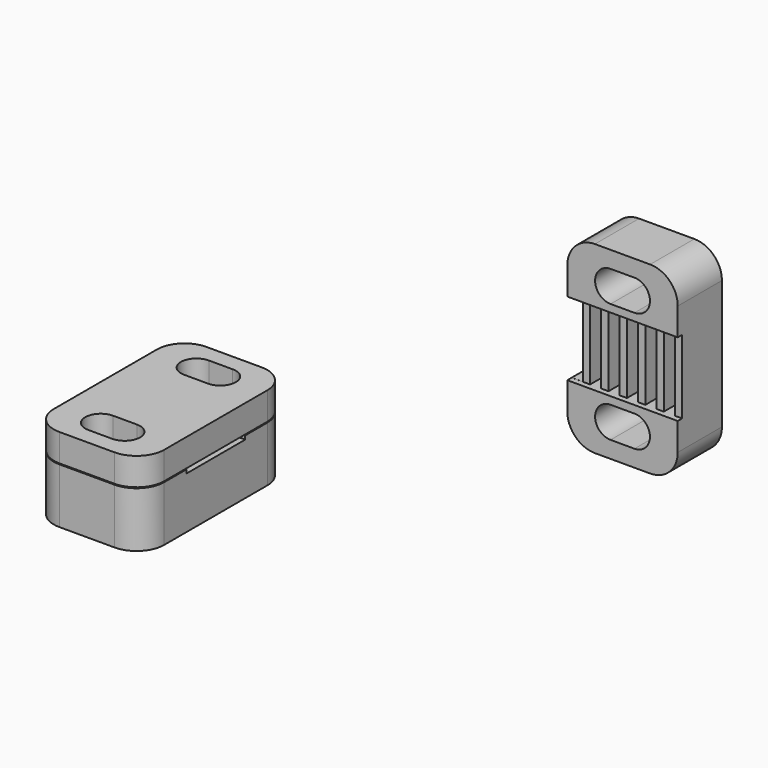
from build123d import *

# Parameters (mm, degrees)
BOX002_W        = 12
BOX002_H        = 6
BOX002_DEPTH    = 20
POCKET015_DEPTH = 6.001
SKETCH013_W     = 0.6
SKETCH013_H     = 8
POCKET016_DEPTH = 12.001
SKETCH011_W     = 1.2
SKETCH011_H     = 8
POCKET017_DEPTH = 1.6
FILLET006_R     = 3
PAD_DEPTH       = 6
SKETCH015_W     = 8
SKETCH015_H     = 0.5
POCKET_DEPTH    = 12.001
POCKET018_DEPTH = 6.001
PAD001_DEPTH    = 3
POCKET019_DEPTH = 5
SKETCH017_W     = 1.2
SKETCH017_H     = 8
POCKET020_DEPTH = 0.8


with BuildPart() as fillet006:
    # Box002 → Box002 (new body)
    with BuildSketch(Plane(origin=(28, 40, 0), x_dir=(1, 0, 0), z_dir=(0, 0, 1))):
        with Locations((6, 3)):
            Rectangle(BOX002_W, BOX002_H)
    extrude(amount=BOX002_DEPTH)

    # Sketch012 → Pocket015 (cut, through all)
    with BuildSketch(Plane(origin=(28, 46, 0), x_dir=(-1, 0, 0), z_dir=(0, 1, 0))):
        with BuildLine():
            ThreePointArc((-7.3, 18.18), (-8.98, 16.5), (-7.3, 14.82))
            Line((-7.3, 14.82), (-4.7, 14.82))
            ThreePointArc((-4.7, 14.82), (-3.02, 16.5), (-4.7, 18.18))
            Line((-7.3, 18.18), (-4.7, 18.18))
        make_face()
        with BuildLine():
            ThreePointArc((-7.3, 5.18), (-8.98, 3.5), (-7.3, 1.82))
            Line((-7.3, 1.82), (-4.7, 1.82))
            ThreePointArc((-4.7, 1.82), (-3.02, 3.5), (-4.7, 5.18))
            Line((-7.3, 5.18), (-4.7, 5.18))
        make_face()
    extrude(amount=-POCKET015_DEPTH, mode=Mode.SUBTRACT)

    # Sketch013 → Pocket016 (cut, through all)
    with BuildSketch(Plane(origin=(28, 40, 0), x_dir=(0, -1, 0), z_dir=(-1, 0, 0))):
        with Locations((-0.3, 10)):
            Rectangle(SKETCH013_W, SKETCH013_H)
    extrude(amount=-POCKET016_DEPTH, mode=Mode.SUBTRACT)

    # Sketch011 → Pocket017 (cut)
    with BuildSketch(Plane(origin=(28, 40.6, 0), x_dir=(1, 0, 0), z_dir=(0, -1, 0))):
        with Locations((6.599989, 10)):
            Rectangle(SKETCH011_W, SKETCH011_H)
        with Locations((4.599989, 10)):
            Rectangle(SKETCH011_W, SKETCH011_H)
        with Locations((2.599989, 10)):
            Rectangle(SKETCH011_W, SKETCH011_H)
        with Locations((0.6, 10.00427)):
            Rectangle(SKETCH011_W, SKETCH011_H)
        with Locations((8.599989, 10)):
            Rectangle(SKETCH011_W, SKETCH011_H)
        with Locations((10.599989, 10)):
            Rectangle(SKETCH011_W, SKETCH011_H)
    extrude(amount=-POCKET017_DEPTH, mode=Mode.SUBTRACT)

    # Fillet006
    fillet006_edges = [fillet006.edges().sort_by_distance(p)[0] for p in [
        (28, 43, 20),
        (28, 43, 0),
        (40, 43, 20),
        (40, 43, 0),
    ]]
    fillet(fillet006_edges, radius=FILLET006_R)


with BuildPart() as pocket018:
    # Sketch → Pad (new body)
    with BuildSketch(Plane.XY):
        with BuildLine():
            Line((4, 1), (10, 1))
            ThreePointArc((10, 1), (12.12132, 1.87868), (13, 4))
            Line((13, 4), (13, 18))
            ThreePointArc((13, 18), (12.12132, 20.12132), (10, 21))
            Line((10, 21), (4, 21))
            ThreePointArc((4, 21), (1.87868, 20.12132), (1, 18))
            Line((1, 18), (1, 4))
            ThreePointArc((1, 4), (1.87868, 1.87868), (4, 1))
        make_face()
    extrude(amount=PAD_DEPTH)

    # Sketch015 → Pocket (cut, through all)
    with BuildSketch(Plane.YZ.offset(13)):
        with Locations((11, 5.85)):
            Rectangle(SKETCH015_W, SKETCH015_H)
    extrude(amount=-POCKET_DEPTH, mode=Mode.SUBTRACT)

    # Sketch016 → Pocket018 (cut, through all)
    with BuildSketch(Plane(origin=(0, 0, 0), x_dir=(1, 0, 0), z_dir=(0, 0, -1))):
        with BuildLine():
            ThreePointArc((5.7, -15.82), (4.02, -17.5), (5.7, -19.18))
            Line((5.7, -19.18), (8.3, -19.18))
            ThreePointArc((8.3, -19.18), (9.98, -17.5), (8.3, -15.82))
            Line((5.7, -15.82), (8.3, -15.82))
        make_face()
        with BuildLine():
            ThreePointArc((5.7, -2.82), (4.02, -4.5), (5.7, -6.18))
            Line((5.7, -6.18), (8.3, -6.18))
            ThreePointArc((8.3, -6.18), (9.98, -4.5), (8.3, -2.82))
            Line((5.7, -2.82), (8.3, -2.82))
        make_face()
    extrude(amount=-POCKET018_DEPTH, mode=Mode.SUBTRACT)


with BuildPart() as pocket020:
    # Sketch014 → Pad001 (new body)
    with BuildSketch(Plane.XY.offset(6.1)):
        with BuildLine():
            Line((4, 1), (10, 1))
            ThreePointArc((10, 1), (12.12132, 1.87868), (13, 4))
            Line((13, 4), (13, 18))
            ThreePointArc((13, 18), (12.12132, 20.12132), (10, 21))
            Line((10, 21), (4, 21))
            ThreePointArc((4, 21), (1.87868, 20.12132), (1, 18))
            Line((1, 18), (1, 4))
            ThreePointArc((1, 4), (1.87868, 1.87868), (4, 1))
        make_face()
    extrude(amount=PAD001_DEPTH)

    # Sketch018 → Pocket019 (cut)
    with BuildSketch(Plane.XY.offset(9.1)):
        with BuildLine():
            ThreePointArc((5.7, 6.18), (4.02, 4.5), (5.7, 2.82))
            Line((5.7, 2.82), (8.3, 2.82))
            ThreePointArc((8.3, 2.82), (9.98, 4.5), (8.3, 6.18))
            Line((5.7, 6.18), (8.3, 6.18))
        make_face()
        with BuildLine():
            ThreePointArc((5.7, 19.18), (4.02, 17.5), (5.7, 15.82))
            Line((5.7, 15.82), (8.3, 15.82))
            ThreePointArc((8.3, 15.82), (9.98, 17.5), (8.3, 19.18))
            Line((5.7, 19.18), (8.3, 19.18))
        make_face()
    extrude(amount=-POCKET019_DEPTH, mode=Mode.SUBTRACT)

    # Sketch017 → Pocket020 (cut)
    with BuildSketch(Plane(origin=(0, 0, 6.1), x_dir=(1, 0, 0), z_dir=(0, 0, -1))):
        with Locations((8, -11)):
            Rectangle(SKETCH017_W, SKETCH017_H)
        with Locations((6, -11)):
            Rectangle(SKETCH017_W, SKETCH017_H)
        with Locations((4, -11)):
            Rectangle(SKETCH017_W, SKETCH017_H)
        with Locations((2, -11)):
            Rectangle(SKETCH017_W, SKETCH017_H)
        with Locations((10, -11)):
            Rectangle(SKETCH017_W, SKETCH017_H)
        with Locations((12, -11)):
            Rectangle(SKETCH017_W, SKETCH017_H)
    extrude(amount=-POCKET020_DEPTH, mode=Mode.SUBTRACT)


solid = Compound([fillet006.part, pocket018.part, pocket020.part])
